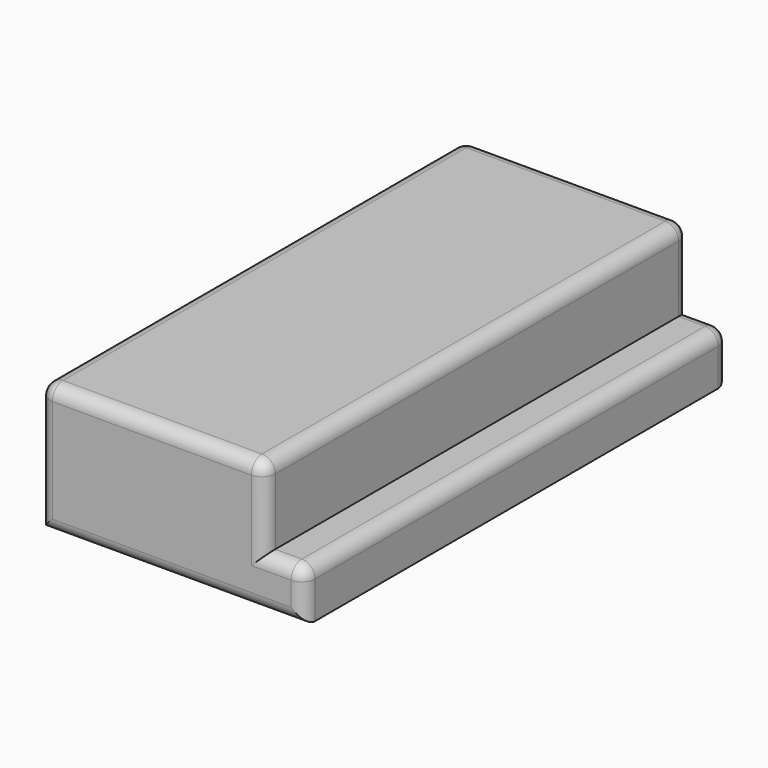
from build123d import *

# Parameters (mm, degrees)
F0_W     = 20
F0_H     = 40
F1_DEPTH = 3.8
F2_W     = 17
F2_H     = 40
F3_DEPTH = 6
F4_R     = 1


with BuildPart() as f1:
    # F0 (on Top) → F1 (new body)
    with BuildSketch(Plane.XY):
        with Locations((-0.663412, 4.008531)):
            Rectangle(F0_W, F0_H)
    extrude(amount=F1_DEPTH)

    # F2 (on face) → F3 (join)
    with BuildSketch(Plane.XY.offset(3.8)):
        with Locations((-2.163412, 4.008531)):
            Rectangle(F2_W, F2_H)
    extrude(amount=F3_DEPTH)

    # F4
    f4_edges = [f1.edges().sort_by_distance(p)[0] for p in [
        (6.336588, 4.008531, 9.8),
        (-10.663412, 4.008531, 9.8),
        (9.336588, 4.008531, 3.8),
        (-2.163412, 24.008531, 9.8),
        (9.336588, 24.008531, 1.9),
        (7.836588, 24.008531, 3.8),
        (6.336588, 24.008531, 6.8),
        (-10.663412, 24.008531, 4.9),
        (-0.663412, 24.008531, 0),
        (-10.663412, -15.991469, 4.9),
        (-2.163412, -15.991469, 9.8),
        (6.336588, -15.991469, 6.8),
        (7.836588, -15.991469, 3.8),
        (9.336588, -15.991469, 1.9),
        (-0.663412, -15.991469, 0),
    ]]
    fillet(f4_edges, radius=F4_R)


solid = f1.part
